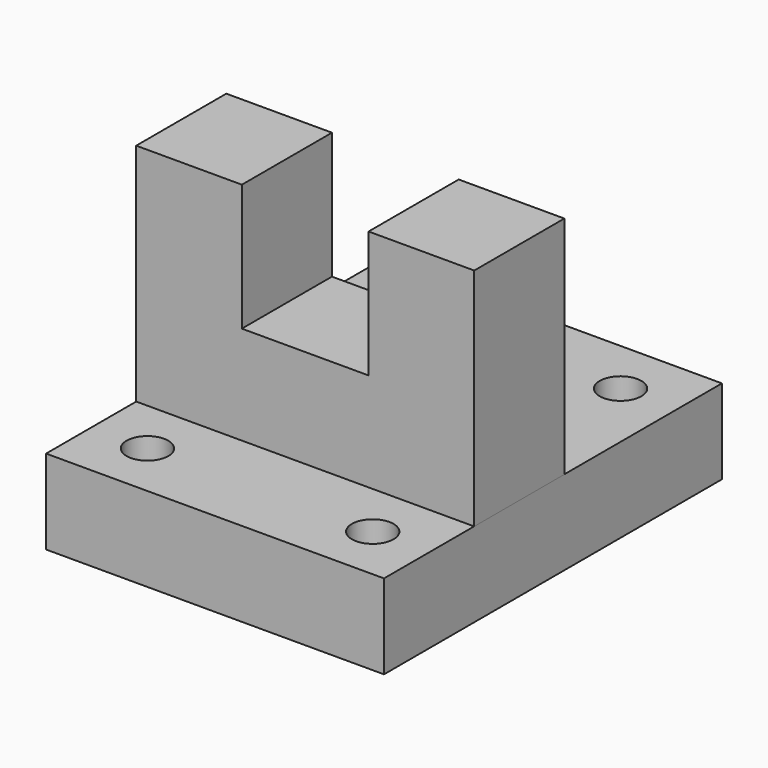
from build123d import *

# Parameters (mm, degrees)
F1_DEPTH = 25.4
F3_DEPTH = 76.2
F4_R     = 4.699
F5_DEPTH = 25.4


with BuildPart() as f1:
    # F0 (on Front) → F1 (new body)
    with BuildSketch(Plane.XZ):
        Polygon((-36.353452, 38.035411), (-60.178652, 38.035411), (-60.178652, -12.764589), (16.046748, -12.764589), (16.046748, 38.035411), (-7.778452, 38.035411), (-7.778452, 9.460411), (-36.353452, 9.460411), align=None)
    extrude(amount=F1_DEPTH)

    # F2 (on face) → F3 (join)
    with BuildSketch(Plane(origin=(-60.178652, 0, 0), x_dir=(0, -1, 0), z_dir=(-1, 0, 0))):
        Polygon((50.8, -12.764589), (0, -12.764589), (-44.45, -12.764589), (-44.45, -31.814589), (50.8, -31.814589), align=None)
    extrude(amount=-F3_DEPTH)

    # F4 (on face) → F5 (cut)
    with BuildSketch(Plane.XY.offset(-12.764589)):
        with Locations((3.321348, 31.75)):
            Circle(F4_R)
        with Locations((-47.478652, 31.75)):
            Circle(F4_R)
        with Locations((-47.478652, -38.1)):
            Circle(F4_R)
        with Locations((3.321348, -38.1)):
            Circle(F4_R)
    extrude(amount=-F5_DEPTH, mode=Mode.SUBTRACT)


solid = f1.part
